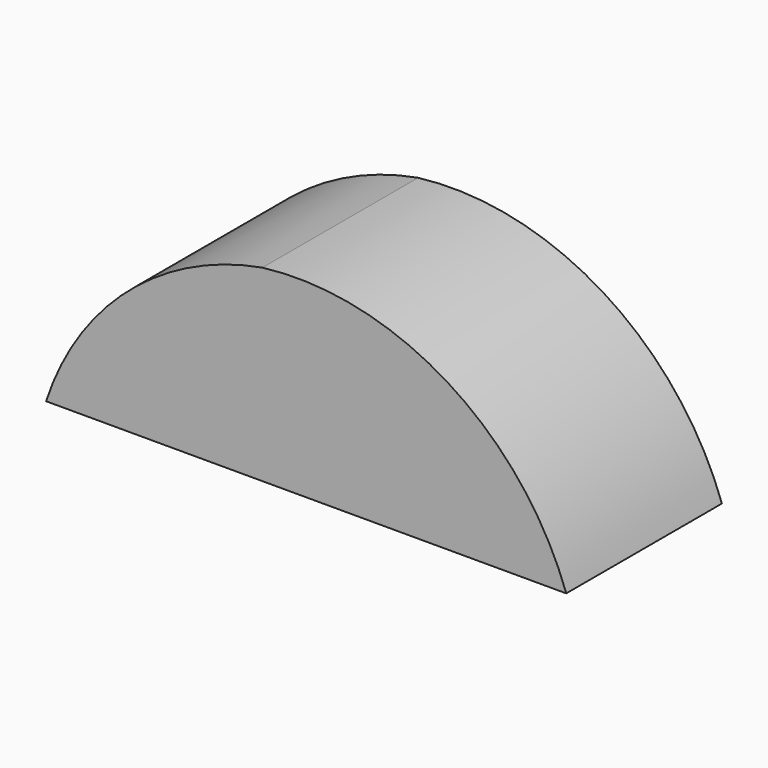
from build123d import *

# Parameters (mm, degrees)
F1_DEPTH = 36.91612


with BuildPart() as f1:
    # F0 (on Front) → F1 (new body)
    with BuildSketch(Plane.XZ):
        with BuildLine():
            ThreePointArc((57.653408, 0), (35.09047, 27.958461), (0, 35.666939))
            ThreePointArc((0, 35.666939), (-25.445671, 23.500556), (-41.041404, 0))
            Line((-41.041404, 0), (57.653408, 0))
        make_face()
    extrude(amount=F1_DEPTH)


solid = f1.part
